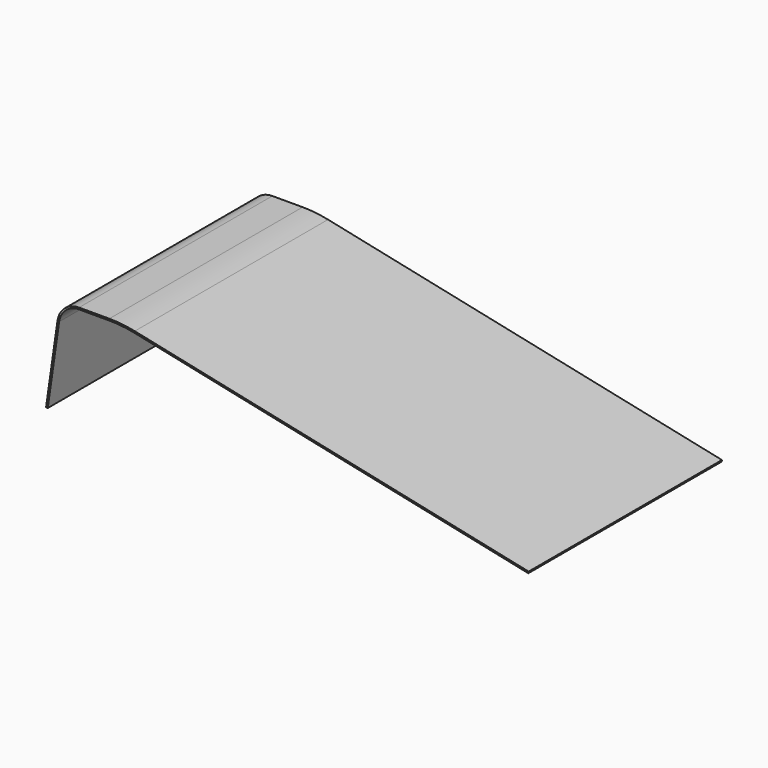
from build123d import *

# Parameters (mm, degrees)
F1_DEPTH = 152.4


with BuildPart() as f1:
    # F0 (on Front) → F1 (new body)
    with BuildSketch(Plane.XZ):
        with BuildLine():
            ThreePointArc((36.542293, 255.796051), (40.793589, 263.594265), (49.114652, 266.7))
            Line((49.114652, 266.7), (68.207103, 266.7))
            ThreePointArc((68.207103, 266.7), (76.156388, 266.284226), (84.018924, 265.04144))
            Line((84.018924, 265.04144), (332.490392, 212.335371))
            Line((332.490392, 212.335371), (332.711757, 213.378952))
            Line((332.711757, 213.378952), (84.24029, 266.08502))
            ThreePointArc((84.24029, 266.08502), (76.267678, 267.345205), (68.207103, 267.7668))
            Line((68.207103, 267.7668), (49.114652, 267.7668))
            ThreePointArc((49.114652, 267.7668), (40.09462, 264.400184), (35.486215, 255.94692))
            Line((35.486215, 255.94692), (28.30201, 205.657485))
            Line((28.30201, 205.657485), (29.358088, 205.506617))
            Line((29.358088, 205.506617), (36.542293, 255.796051))
        make_face()
    extrude(amount=F1_DEPTH)


solid = f1.part
